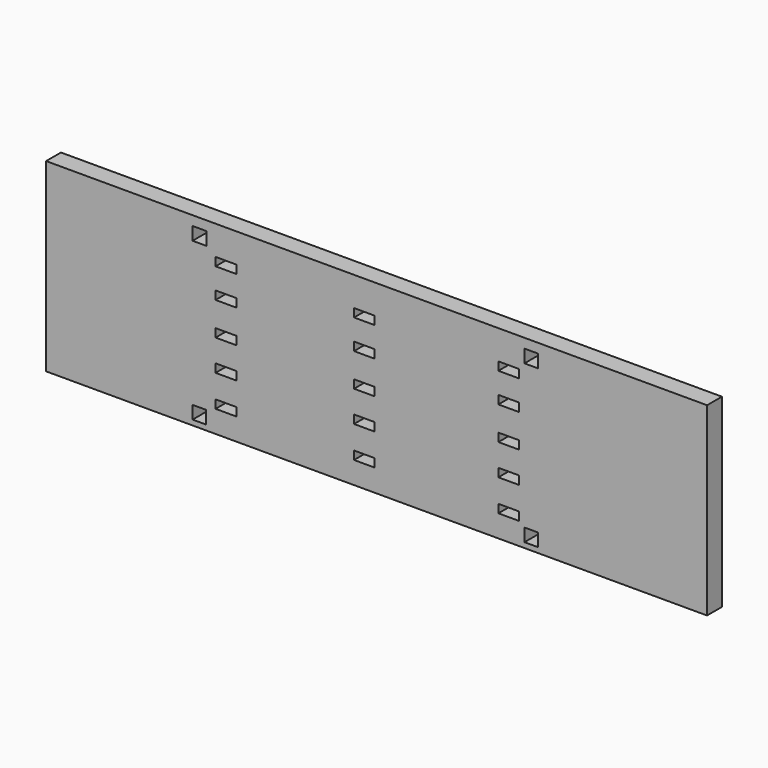
from build123d import *

# Parameters (mm, degrees)
F0_W     = 59.3514069915
F0_H     = 25.3017321229
F0_W_2   = 2.8294473886
F0_H_2   = 1.1425092816
F0_W_3   = 2.8104633093
F0_H_3   = 1.1491477489
F0_H_4   = 1.1398382485
F0_W_4   = 2.8264205903
F0_H_5   = 1.1500753462
F0_H_6   = 1.1371672153
F2_DEPTH = 2.54
F1_W     = 1.8652155995
F1_H     = 1.7804317176
F1_W_2   = 1.8652137369
F1_W_3   = 1.850374043
F1_H_2   = 1.7718821764
F3_DEPTH = 25.4
F4_DEPTH = 13.716
F5_DEPTH = 17.272


with BuildPart() as f2:
    # F0 (on Front) → F2 (new body)
    with BuildSketch(Plane.XZ):
        with Locations((-45.5565787852, 49.0557551384)):
            Rectangle(F0_W, F0_H)
        with Locations((-67.9233074188, 39.9998538196)):
            Rectangle(F0_W_2, F0_H_2, mode=Mode.SUBTRACT)
        with Locations((-49.0072369576, 39.9998538196)):
            Rectangle(F0_W_3, F0_H_2, mode=Mode.SUBTRACT)
        with Locations((-67.9233074188, 44.3319603801)):
            Rectangle(F0_W_2, F0_H_3, mode=Mode.SUBTRACT)
        with Locations((-67.9233074188, 48.5712159425)):
            Rectangle(F0_W_2, F0_H_4, mode=Mode.SUBTRACT)
        with Locations((-49.0072369576, 44.3319603801)):
            Rectangle(F0_W_3, F0_H_3, mode=Mode.SUBTRACT)
        with Locations((-49.0072369576, 48.5712159425)):
            Rectangle(F0_W_3, F0_H_4, mode=Mode.SUBTRACT)
        with Locations((-29.2699420825, 39.9998538196)):
            Rectangle(F0_W_4, F0_H_2, mode=Mode.SUBTRACT)
        with Locations((-29.2699420825, 44.3319603801)):
            Rectangle(F0_W_4, F0_H_3, mode=Mode.SUBTRACT)
        with Locations((-29.2699420825, 48.5712159425)):
            Rectangle(F0_W_4, F0_H_4, mode=Mode.SUBTRACT)
        with Locations((-67.9233074188, 53.1031731516)):
            Rectangle(F0_W_2, F0_H_5, mode=Mode.SUBTRACT)
        with Locations((-49.0072369576, 53.1031731516)):
            Rectangle(F0_W_3, F0_H_5, mode=Mode.SUBTRACT)
        with Locations((-67.9233074188, 57.1425780654)):
            Rectangle(F0_W_2, F0_H_6, mode=Mode.SUBTRACT)
        with Locations((-49.0072369576, 57.1425780654)):
            Rectangle(F0_W_3, F0_H_6, mode=Mode.SUBTRACT)
        with Locations((-29.2699420825, 53.1031731516)):
            Rectangle(F0_W_4, F0_H_5, mode=Mode.SUBTRACT)
        with Locations((-29.2699420825, 57.1425780654)):
            Rectangle(F0_W_4, F0_H_6, mode=Mode.SUBTRACT)
    extrude(amount=F2_DEPTH)

    # F1 (on Front) → F3 (cut)
    with BuildSketch(Plane.XZ):
        with Locations((-71.5445019305, 59.5189426094)):
            Rectangle(F1_W, F1_H)
        with Locations((-26.1859139428, 59.5189426094)):
            Rectangle(F1_W_2, F1_H)
        with Locations((-71.5519227087, 37.9981175065)):
            Rectangle(F1_W_3, F1_H_2)
        with Locations((-26.1859139428, 37.9981175065)):
            Rectangle(F1_W_2, F1_H_2)
    extrude(amount=F3_DEPTH, mode=Mode.SUBTRACT)

    # F4 (add): a face of the model
    f4_faces = [f2.faces().sort_by_distance(p)[0] for p in [
        (-15.8808752894, -1.27, 49.0557551384),
    ]]
    extrude(f4_faces, amount=F4_DEPTH)

    # F5 (add): a face of the model
    f5_faces = [f2.faces().sort_by_distance(p)[0] for p in [
        (-75.2322822809, -1.27, 49.0557551384),
    ]]
    extrude(f5_faces, amount=F5_DEPTH)


solid = f2.part
